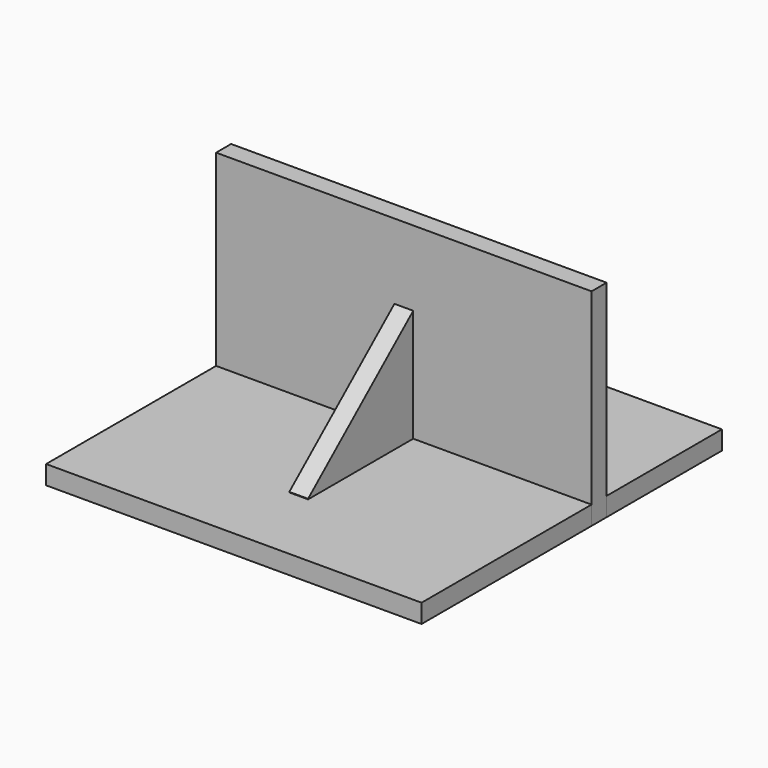
from build123d import *

# Parameters (mm, degrees)
F0_W     = 200
F0_H     = 76.8
F1_DEPTH = 10
F2_DEPTH = 110
F0_W_2   = 5
F0_H_2   = 70
F3_DEPTH = 70
F5_DEPTH = 100


with BuildPart() as f1:
    # F0 (on Top) → F1 (new body)
    with BuildSketch(Plane.XY):
        with Locations((0, 61.6)):
            Rectangle(F0_W, F0_H)
        Polygon((-20.44335, 13.2), (-100, 13.2), (-100, -100), (100, -100), (100, 13.2), (25.435627, 13.2), (5, 13.2), (5, -56.8), (0, -56.8), (-5, -56.8), (-5, 13.2), align=None)
    extrude(amount=F1_DEPTH)


with BuildPart() as f2:
    # F0 (on Top) → F2 (new body)
    with BuildSketch(Plane.XY):
        Polygon((100, 23.2), (-100, 23.2), (-100, 13.2), (-20.44335, 13.2), (-5, 13.2), (0, 13.2), (5, 13.2), (25.435627, 13.2), (100, 13.2), align=None)
    extrude(amount=F2_DEPTH)


with BuildPart() as f3:
    # F0 (on Top) → F3 (new body)
    with BuildSketch(Plane.XY):
        with Locations((2.5, -21.8)):
            Rectangle(F0_W_2, F0_H_2)
        with Locations((-2.5, -21.8)):
            Rectangle(F0_W_2, F0_H_2)
    extrude(amount=F3_DEPTH)

    # F4 (on face) → F5 (cut)
    with BuildSketch(Plane(origin=(-5, 0, 0), x_dir=(0, -1, 0), z_dir=(-1, 0, 0))):
        Polygon((56.8, 70), (-13.2, 70), (56.8, 10.27856), align=None)
    extrude(amount=-F5_DEPTH, mode=Mode.SUBTRACT)


solid = Compound([f1.part, f2.part, f3.part])
